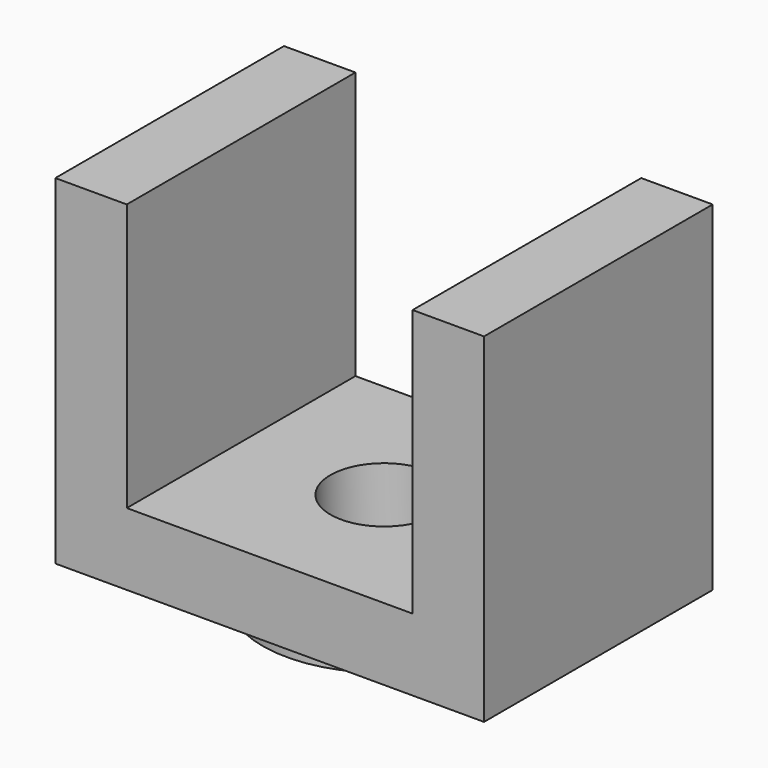
from build123d import *

# Parameters (mm, degrees)
F0_W     = 60
F0_H     = 40
F1_DEPTH = 50.5
F2_W     = 60
F2_H     = 3
F3_DEPTH = 40.001
F4_R     = 17
F5_DEPTH = 3
F6_W     = 40
F6_H     = 37.407568
F7_DEPTH = 40.001
F8_R     = 7.5
F9_DEPTH = 50.501


with BuildPart() as f1:
    # F0 (on Top) → F1 (new body)
    with BuildSketch(Plane.XY):
        with Locations((30, -20)):
            Rectangle(F0_W, F0_H)
    extrude(amount=F1_DEPTH)

    # F2 (on face) → F3 (cut, through all)
    with BuildSketch(Plane.XZ.offset(40)):
        with Locations((30, 1.5)):
            Rectangle(F2_W, F2_H)
    extrude(amount=-F3_DEPTH, mode=Mode.SUBTRACT)

    # F4 (on face) → F5 (join)
    with BuildSketch(Plane(origin=(0, 0, 3), x_dir=(1, 0, 0), z_dir=(0, 0, -1))):
        with Locations((30, 20)):
            Circle(F4_R)
    extrude(amount=F5_DEPTH)

    # F6 (on face) → F7 (cut, through all)
    with BuildSketch(Plane.XZ.offset(40)):
        with Locations((30, 31.796216)):
            Rectangle(F6_W, F6_H)
    extrude(amount=-F7_DEPTH, mode=Mode.SUBTRACT)

    # F8 (on face) → F9 (cut, through all)
    with BuildSketch(Plane(origin=(0, 0, 0), x_dir=(1, 0, 0), z_dir=(0, 0, -1))):
        with Locations((30, 20)):
            Circle(F8_R)
    extrude(amount=-F9_DEPTH, mode=Mode.SUBTRACT)


solid = f1.part
